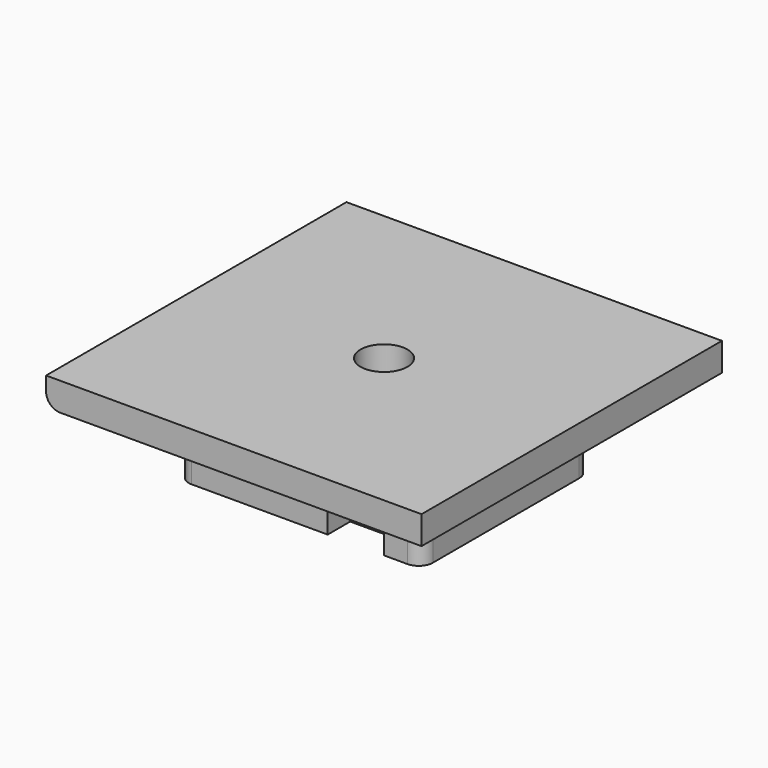
from build123d import *

# Parameters (mm, degrees)
F0_W           = 50.8
F0_H           = 50.8
F1_DEPTH       = 3.81
F3_DEPTH       = 3.81
F5_DEPTH       = 6.35
F6_R           = 1.905
F8_D           = 6.35
F8_CBORE_D     = 19.05
F8_CBORE_DEPTH = 6.35


with BuildPart() as f1:
    # F0 (on Top) → F1 (new body)
    with BuildSketch(Plane.XY):
        Rectangle(F0_W, F0_H)
    extrude(amount=F1_DEPTH)

    # F2 (on face) → F3 (join)
    with BuildSketch(Plane(origin=(0, 0, 0), x_dir=(1, 0, 0), z_dir=(0, 0, -1))):
        Polygon((-3.81, 14.2875), (-16.51, 14.2875), (-16.51, -14.2875), (-3.81, -14.2875), (-3.81, -10.4775), (11.43, -10.4775), (11.43, -14.2875), (16.51, -14.2875), (16.51, 14.2875), (11.43, 14.2875), (11.43, 10.4775), (-3.81, 10.4775), align=None)
    extrude(amount=F3_DEPTH)

    # F4 (on face) → F5 (join)
    with BuildSketch(Plane(origin=(0, 0, -3.81), x_dir=(1, 0, 0), z_dir=(0, 0, -1))):
        Polygon((3.81, 14.2875), (-16.51, 14.2875), (-16.51, -14.2875), (3.81, -14.2875), (3.81, -10.4775), (11.43, -10.4775), (11.43, -14.2875), (16.51, -14.2875), (16.51, 14.2875), (11.43, 14.2875), (11.43, 10.4775), (3.81, 10.4775), align=None)
    extrude(amount=F5_DEPTH)

    # F6
    f6_edges = [f1.edges().sort_by_distance(p)[0] for p in [
        (3.81, -12.3825, -3.81),
        (16.51, -14.2875, -5.08),
        (16.51, 14.2875, -5.08),
        (3.81, 12.3825, -3.81),
        (-16.51, 14.2875, -5.08),
        (-16.51, -14.2875, -5.08),
        (-25.4, 0, 0),
    ]]
    fillet(f6_edges, radius=F6_R)

    # F8 (through all)
    with Locations(Plane(origin=(0, 0, -10.16), x_dir=(1, 0, 0), z_dir=(0, 0, -1))):
        with Locations((0, 0)):
            CounterBoreHole(F8_D / 2, F8_CBORE_D / 2, F8_CBORE_DEPTH)


solid = f1.part
